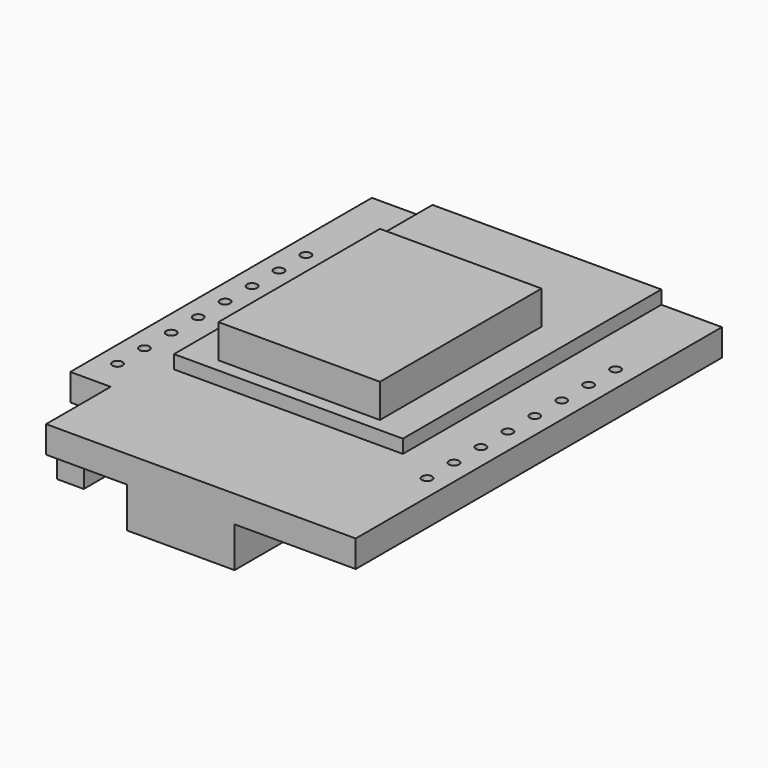
from build123d import *

# Parameters (mm, degrees)
F1_DEPTH  = 2
F2_W      = 17
F2_H      = 24
F3_DEPTH  = 1
F4_W      = 12
F4_H      = 15
F5_DEPTH  = 2.5
F6_W      = 8
F6_H      = 6
F7_DEPTH  = 3
F8_W      = 2
F8_H      = 4.5
F9_DEPTH  = 2
F10_W     = 2
F10_H     = 1
F11_DEPTH = 1
F12_W     = 10.5
F12_H     = 4
F13_DEPTH = 1.5
F14_R     = 0.375
F15_DEPTH = 25


with BuildPart() as f1:
    # F0 (on Top) → F1 (new body)
    with BuildSketch(Plane.XY):
        Polygon((13, 17), (-13, 17), (-13, -11), (-10, -11), (-10, -17), (13, -17), align=None)
    extrude(amount=F1_DEPTH)

    # F2 (on face) → F3 (join)
    with BuildSketch(Plane.XY.offset(2)):
        with Locations((0, 5)):
            Rectangle(F2_W, F2_H)
    extrude(amount=F3_DEPTH)

    # F4 (on face) → F5 (join)
    with BuildSketch(Plane.XY.offset(3)):
        with Locations((0, 1.5)):
            Rectangle(F4_W, F4_H)
    extrude(amount=F5_DEPTH)

    # F6 (on face) → F7 (join)
    with BuildSketch(Plane(origin=(0, 0, 0), x_dir=(1, 0, 0), z_dir=(0, 0, -1))):
        with Locations((0, 14)):
            Rectangle(F6_W, F6_H)
    extrude(amount=F7_DEPTH)

    # F8 (on face) → F9 (join)
    with BuildSketch(Plane(origin=(0, 0, 0), x_dir=(1, 0, 0), z_dir=(0, 0, -1))):
        with Locations((-9, 13.75)):
            Rectangle(F8_W, F8_H)
    extrude(amount=F9_DEPTH)

    # F10 (on face) → F11 (join)
    with BuildSketch(Plane(origin=(-10, 0, 0), x_dir=(0, -1, 0), z_dir=(-1, 0, 0))):
        with Locations((13.75, -1)):
            Rectangle(F10_W, F10_H)
    extrude(amount=F11_DEPTH)

    # F12 (on face) → F13 (join)
    with BuildSketch(Plane(origin=(0, 0, 0), x_dir=(1, 0, 0), z_dir=(0, 0, -1))):
        with Locations((-0.75, 0.206931)):
            Rectangle(F12_W, F12_H)
    extrude(amount=F13_DEPTH)

    # F14 (on face) → F15 (cut)
    with BuildSketch(Plane(origin=(0, 0, 0), x_dir=(1, 0, 0), z_dir=(0, 0, -1))):
        with Locations((-11.5, -9)):
            Circle(F14_R)
        with Locations((-11.5, -6.5)):
            Circle(F14_R)
        with Locations((-11.5, -4)):
            Circle(F14_R)
        with Locations((-11.5, -1.5)):
            Circle(F14_R)
        with Locations((-11.5, 1)):
            Circle(F14_R)
        with Locations((-11.5, 3.5)):
            Circle(F14_R)
        with Locations((-11.5, 6)):
            Circle(F14_R)
        with Locations((-11.5, 8.5)):
            Circle(F14_R)
        with Locations((11.5, -9)):
            Circle(F14_R)
        with Locations((11.5, -6.5)):
            Circle(F14_R)
        with Locations((11.5, -4)):
            Circle(F14_R)
        with Locations((11.5, -1.5)):
            Circle(F14_R)
        with Locations((11.5, 1)):
            Circle(F14_R)
        with Locations((11.5, 3.5)):
            Circle(F14_R)
        with Locations((11.5, 6)):
            Circle(F14_R)
        with Locations((11.5, 8.5)):
            Circle(F14_R)
    extrude(amount=-F15_DEPTH, mode=Mode.SUBTRACT)


solid = f1.part
